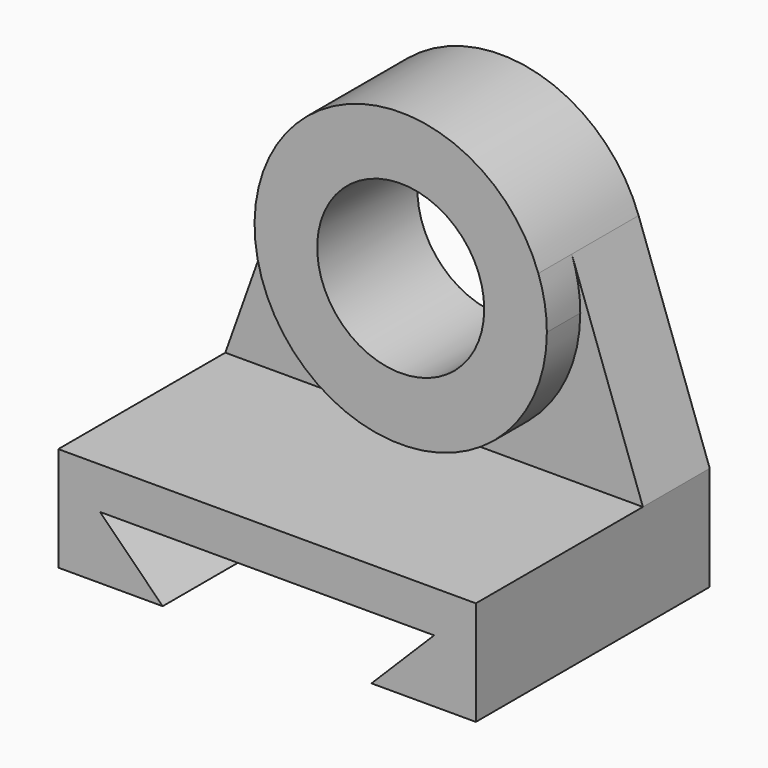
from build123d import *

# Parameters (mm, degrees)
F1_DEPTH = 177.8
F0_R     = 50.8
F2_DEPTH = 50.8
F3_DEPTH = 76.2


with BuildPart() as f1:
    # F0 (on Front) → F1 (new body)
    with BuildSketch(Plane.XZ):
        Polygon((254, 0), (0, 0), (0, -63.5), (63.5, -63.5), (25.4, -25.4), (228.6, -25.4), (190.5, -63.5), (254, -63.5), align=None)
    extrude(amount=F1_DEPTH)

    # F0 (on Front) → F2 (join)
    with BuildSketch(Plane.XZ):
        with BuildLine():
            Line((43.266761, 121.30561), (0, 0))
            Line((0, 0), (254, 0))
            Line((254, 0), (210.733239, 121.30561))
            ThreePointArc((210.733239, 121.30561), (214.598787, 106.59462), (215.9, 91.44))
            ThreePointArc((215.9, 91.44), (111.84538, 3.841213), (43.266761, 121.30561))
        make_face()
        with BuildLine():
            ThreePointArc((210.733239, 121.30561), (127, 180.34), (43.266761, 121.30561))
            ThreePointArc((43.266761, 121.30561), (111.84538, 3.841213), (215.9, 91.44))
            ThreePointArc((215.9, 91.44), (214.598787, 106.59462), (210.733239, 121.30561))
        make_face()
        with Locations((127, 91.44)):
            Circle(F0_R, mode=Mode.SUBTRACT)
    extrude(amount=F2_DEPTH)

    # F0 (on Front) → F3 (join)
    with BuildSketch(Plane.XZ):
        with BuildLine():
            ThreePointArc((210.733239, 121.30561), (127, 180.34), (43.266761, 121.30561))
            ThreePointArc((43.266761, 121.30561), (111.84538, 3.841213), (215.9, 91.44))
            ThreePointArc((215.9, 91.44), (214.598787, 106.59462), (210.733239, 121.30561))
        make_face()
        with Locations((127, 91.44)):
            Circle(F0_R, mode=Mode.SUBTRACT)
    extrude(amount=F3_DEPTH)


solid = f1.part
